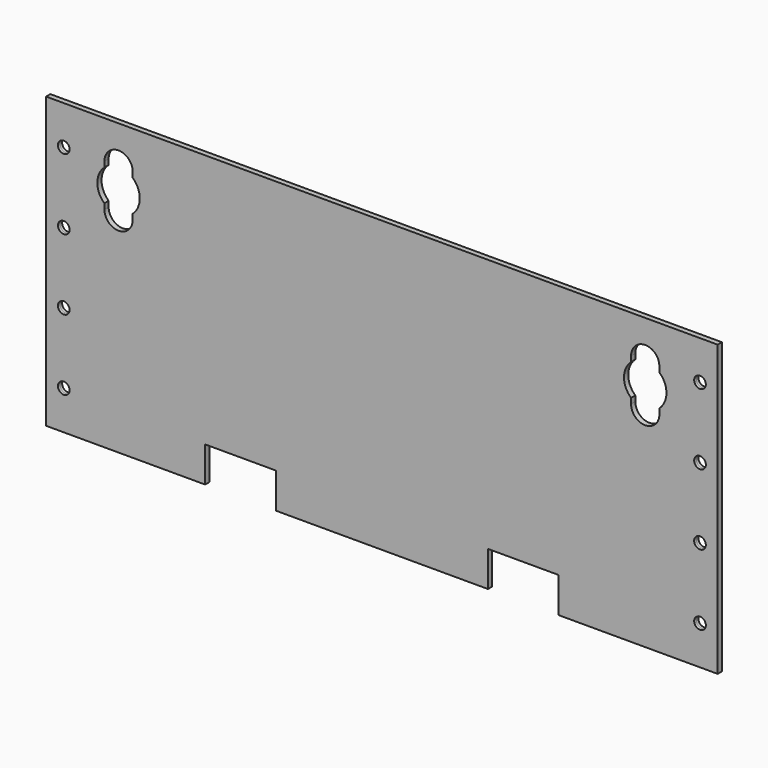
from build123d import *

# Parameters (mm, degrees)
SKETCH_W        = 190
SKETCH_H        = 82
SKETCH_R        = 1.65
PAD_DEPTH       = 0.75
PAD_DEPTH_BACK  = 0.75
SKETCH001_W     = 20
SKETCH001_H     = 10
POCKET_DEPTH    = 1.501
POCKET001_DEPTH = 1.501
SKETCH003_R     = 6
POCKET002_DEPTH = 1.501


with BuildPart() as part:
    # Sketch → Pad (new body, two sides)
    with BuildSketch(Plane.XZ) as pad_sk:
        Rectangle(SKETCH_W, SKETCH_H)
        with Locations((90, 30)):
            Circle(SKETCH_R, mode=Mode.SUBTRACT)
        with Locations((90, 10)):
            Circle(SKETCH_R, mode=Mode.SUBTRACT)
        with Locations((90, -30)):
            Circle(SKETCH_R, mode=Mode.SUBTRACT)
        with Locations((90, -10)):
            Circle(SKETCH_R, mode=Mode.SUBTRACT)
        with Locations((-90, 30)):
            Circle(SKETCH_R, mode=Mode.SUBTRACT)
        with Locations((-90, 10)):
            Circle(SKETCH_R, mode=Mode.SUBTRACT)
        with Locations((-90, -30)):
            Circle(SKETCH_R, mode=Mode.SUBTRACT)
        with Locations((-90, -10)):
            Circle(SKETCH_R, mode=Mode.SUBTRACT)
    extrude(amount=PAD_DEPTH)
    extrude(pad_sk.sketch, amount=-PAD_DEPTH_BACK)

    # Sketch001 (on Face14 of Pad) → Pocket (cut, through all)
    with BuildSketch(Plane.XZ.offset(0.75)):
        with Locations((-40, -36)):
            Rectangle(SKETCH001_W, SKETCH001_H)
        with Locations((40, -36)):
            Rectangle(SKETCH001_W, SKETCH001_H)
    extrude(amount=-POCKET_DEPTH, mode=Mode.SUBTRACT)

    # Sketch002 (on Face5 of Pocket) → Pocket001 (cut, through all)
    with BuildSketch(Plane.XZ.offset(0.75)):
        with BuildLine():
            ThreePointArc((78.5, 30.25), (74.5, 34.25), (70.5, 30.25))
            Line((70.5, 30.25), (70.5, 18.25))
            ThreePointArc((70.5, 18.25), (74.5, 14.25), (78.5, 18.25))
            Line((78.5, 30.25), (78.5, 18.25))
        make_face()
        with BuildLine():
            ThreePointArc((-70.5, 30.25), (-74.5, 34.25), (-78.5, 30.25))
            Line((-78.5, 30.25), (-78.5, 18.25))
            ThreePointArc((-78.5, 18.25), (-74.5, 14.25), (-70.5, 18.25))
            Line((-70.5, 30.25), (-70.5, 18.25))
        make_face()
    extrude(amount=-POCKET001_DEPTH, mode=Mode.SUBTRACT)

    # Sketch003 (on Face5 of Pocket001) → Pocket002 (cut, through all)
    with BuildSketch(Plane.XZ.offset(0.75)):
        with Locations((-74.5, 24.25)):
            Circle(SKETCH003_R)
        with Locations((74.5, 24.25)):
            Circle(SKETCH003_R)
    extrude(amount=-POCKET002_DEPTH, mode=Mode.SUBTRACT)


solid = part.part
